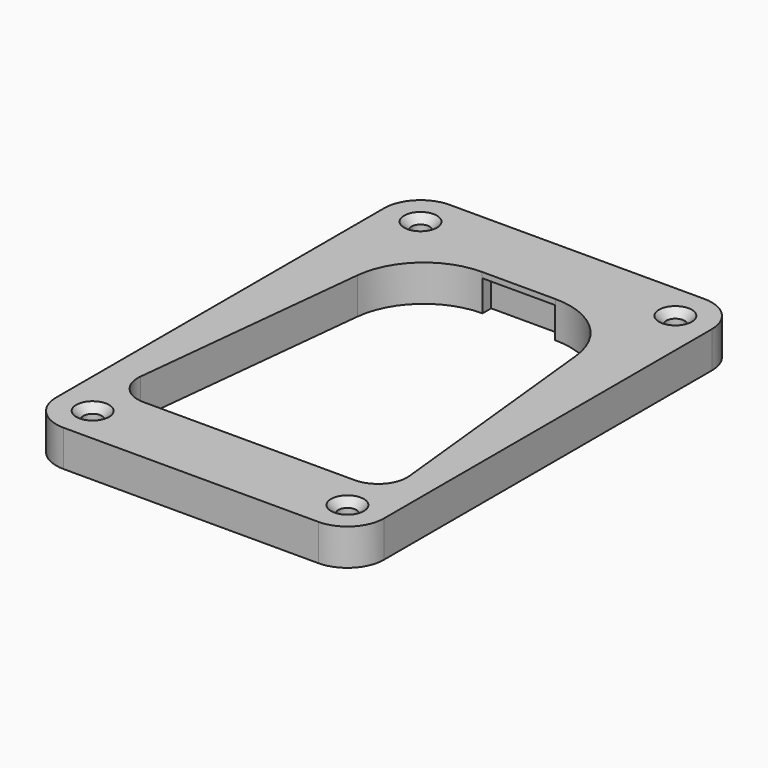
from build123d import *

# Parameters (mm, degrees)
F0_R     = 2.5
F0_W     = 20
F0_H     = 3
F1_DEPTH = 10
F2_SIZE  = 2
F3_DEPTH = 8.5


with BuildPart() as f1:
    # F0 (on Top) → F1 (new body)
    with BuildSketch(Plane.XY):
        with BuildLine():
            ThreePointArc((-45, -10), (-42.0710678119, -17.0710678119), (-35, -20))
            Line((-35, -20), (35, -20))
            ThreePointArc((35, -20), (42.0710678119, -17.0710678119), (45, -10))
            Line((45, -10), (45, 102.6))
            ThreePointArc((45, 102.6), (42.0710678119, 109.6710678119), (35, 112.6))
            Line((35, 112.6), (-35, 112.6))
            ThreePointArc((-35, 112.6), (-42.0710678119, 109.6710678119), (-45, 102.6))
            Line((-45, 102.6), (-45, -10))
        make_face()
        with Locations((-35, -10)):
            Circle(F0_R, mode=Mode.SUBTRACT)
        with Locations((35, -10)):
            Circle(F0_R, mode=Mode.SUBTRACT)
        with Locations((-35, 102.6)):
            Circle(F0_R, mode=Mode.SUBTRACT)
        with BuildLine():
            ThreePointArc((-30, 74.7005903715), (-23.489485432, 87.4662673094), (-10.1106179057, 92.6))
            Line((-10.1106179057, 92.6), (-10, 92.6))
            Line((-10, 92.6), (-10, 95.6))
            Line((-10, 95.6), (10, 95.6))
            Line((10, 95.6), (10, 92.6))
            Line((10, 92.6), (10.1106179057, 92.6))
            ThreePointArc((10.1106179057, 92.6), (23.489485432, 87.4662673094), (30, 74.7005903715))
            Line((30, 74.7005903715), (36.9557528377, 8.8402361486))
            ThreePointArc((36.9557528377, 8.8402361486), (34.9465069238, 2.6484529895), (29, 0))
            Line((29, 0), (-29, 0))
            ThreePointArc((-29, 0), (-34.9465069238, 2.6484529895), (-36.9557528377, 8.8402361486))
            Line((-36.9557528377, 8.8402361486), (-30, 74.7005903715))
        make_face(mode=Mode.SUBTRACT)
        with Locations((35, 102.6)):
            Circle(F0_R, mode=Mode.SUBTRACT)
        with Locations((0, 94.1)):
            Rectangle(F0_W, F0_H)
    extrude(amount=F1_DEPTH)

    # F2
    f2_edges = [f1.edges().sort_by_distance(p)[0] for p in [
        (-37.5, -10, 10),
        (32.5, -10, 10),
        (32.5, 102.6, 10),
        (-37.5, 102.6, 10),
    ]]
    chamfer(f2_edges, length=F2_SIZE)

    # F0 (on Top) → F3 (cut)
    with BuildSketch(Plane.XY):
        with Locations((0, 94.1)):
            Rectangle(F0_W, F0_H)
    extrude(amount=F3_DEPTH, mode=Mode.SUBTRACT)


solid = f1.part
